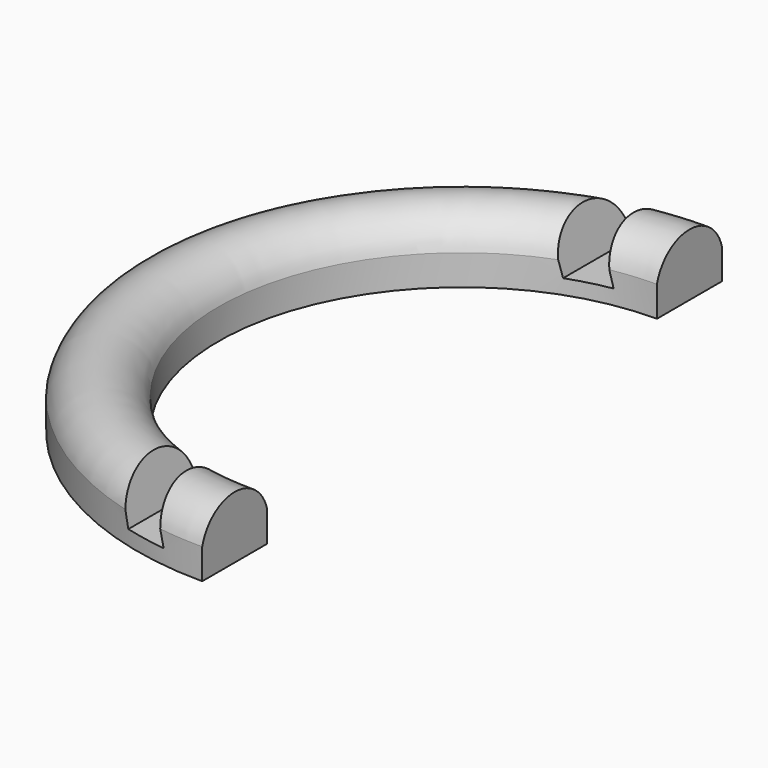
from build123d import *

# Parameters (mm, degrees)
F1_ANGLE = 180
F3_DEPTH = 76.2


with BuildPart() as f1:
    # F0 (on Front) → F1 (revolve, symmetric)
    with BuildSketch(Plane.XZ) as f1_sk:
        with BuildLine():
            Line((-30.48, -3.81), (-30.48, 0))
            ThreePointArc((-30.48, 0), (-35.56, 3.962134), (-40.64, 0))
            Line((-40.64, 0), (-40.64, -3.81))
            Line((-40.64, -3.81), (-30.48, -3.81))
        make_face()
    revolve(axis=Axis((0, 0, 31.664096), (0, 0, 1)), revolution_arc=F1_ANGLE / 2)
    revolve(f1_sk.sketch, axis=Axis((0, 0, 31.664096), (0, 0, -1)), revolution_arc=F1_ANGLE / 2)

    # F2 (on Front) → F3 (cut, symmetric)
    with BuildSketch(Plane.XZ):
        Polygon((-5.08, -1.957448), (-8.953226, 14.028987), (-13.816583, 12.528193), (-10.306973, -1.957448), align=None)
    extrude(amount=F3_DEPTH, both=True, mode=Mode.SUBTRACT)


solid = f1.part
